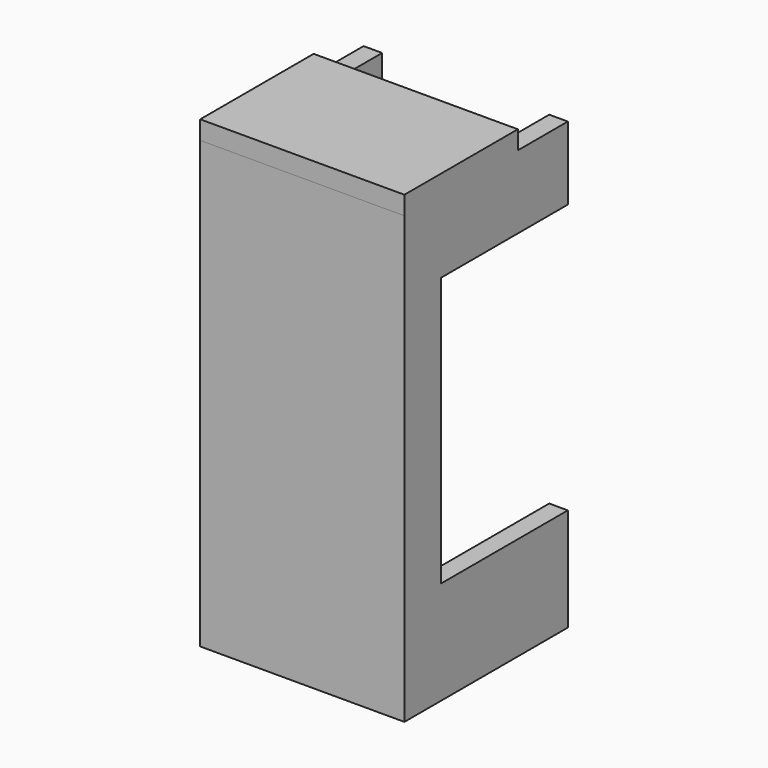
from build123d import *

# Parameters (mm, degrees)
F1_DEPTH = 240
F2_W     = 85.535383
F2_H     = 144.987736
F3_DEPTH = 25
F4_W     = 110
F4_H     = 76.367915
F5_DEPTH = 10


with BuildPart() as f1:
    # F0 (on Top) → F1 (new body)
    with BuildSketch(Plane.XY):
        Polygon((-110, 0), (0, 0), (0, 10), (0, 110), (-10, 110), (-10, 10), (-100, 10), (-100, 110), (-110, 110), (-110, 10), align=None)
    extrude(amount=F1_DEPTH)

    # F2 (on face) → F3 (cut)
    with BuildSketch(Plane.YZ):
        with Locations((67.232309, 128.102003)):
            Rectangle(F2_W, F2_H)
    extrude(amount=-F3_DEPTH, mode=Mode.SUBTRACT)

    # F4 (on face) → F5 (join)
    with BuildSketch(Plane.XY.offset(240)):
        with Locations((-55, 38.183957)):
            Rectangle(F4_W, F4_H)
    extrude(amount=F5_DEPTH)


solid = f1.part
